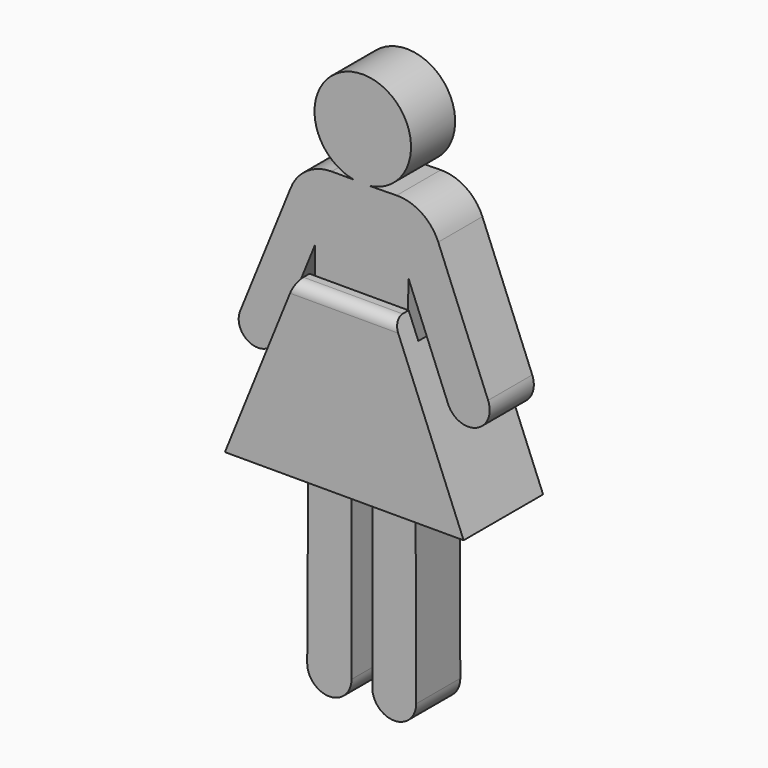
from build123d import *

# Parameters (mm, degrees)
F2_DEPTH      = 6.35
F3_R          = 5.08
F5_DEPTH      = 8.89
F5_DEPTH_BACK = 2.54
F6_R          = 1.27
F7_W          = 13.6138349771
F7_H          = 7.0735514164
F8_DEPTH      = 19.9383124709
F10_W         = 1.6416277504
F10_H         = 5.8430470526
F11_DEPTH     = 2.2302670404
F12_W         = 1.6416277504
F12_H         = 1.9405391067
F13_DEPTH     = 1.2889460195


with BuildPart() as f2:
    # F1 (on Front) → F2 (new body)
    with BuildSketch(Plane.XZ):
        Polygon((0.4060455618, 46.3404494075), (5.3807954976, 46.3404494075), (9.9196409114, 35.1362316918), (14.5262840924, 37.0023897589), (7.4799486011, 54.3963897181), (0.9054420516, 54.2915910446), (0.9054420516, 55.7651892304), (-0.9540487081, 55.7651892304), (-0.9540487081, 54.3336731377), (-6.8995594781, 54.3336731377), (-14.0205790261, 36.7553143044), (-9.9272456086, 35.097098793), (-5.3725473987, 46.3404494075), align=None)
        Polygon((4.9092009358, 30.1961339726), (5.3807954976, 46.3404494075), (0.4060455618, 46.3404494075), (-5.3725473987, 46.3404494075), (-5.4000175056, 30.1961339726), align=None)
        with BuildLine():
            Line((14.5262840924, 37.0023897589), (9.9196409114, 35.1362316918))
            ThreePointArc((9.9196409114, 35.1362316918), (13.1560415355, 33.7659891348), (14.5262840924, 37.0023897589))
        make_face()
        Polygon((6.1827251721, 23.5992409005), (4.9092009358, 30.1961339726), (-5.4000175056, 30.1961339726), (-6.1811307742, 23.599889101), (-1.2004101882, 23.599889101), (-1.2004101882, 30.1607213914), (1.1938, 30.1607213914), (1.1938, 23.5538743436), align=None)
        Polygon((6.2452442944, 3.5675764084), (6.1827251721, 23.5992409005), (1.1938, 23.5538743436), (1.1938, 3.5675764084), align=None)
        with BuildLine():
            ThreePointArc((-14.0205790261, 36.7553143044), (-12.8030200731, 33.8795398399), (-9.9272456086, 35.097098793))
            Line((-9.9272456086, 35.097098793), (-14.0205790261, 36.7553143044))
        make_face()
        with BuildLine():
            ThreePointArc((1.1938, 3.5675764084), (3.7195221472, 1.0339591437), (6.2452442944, 3.5675764084))
            Line((6.2452442944, 3.5675764084), (1.1938, 3.5675764084))
        make_face()
        Polygon((-1.2004101882, 23.599889101), (-6.1811307742, 23.599889101), (-6.2944907695, 3.6183446646), (-1.2004101882, 3.6183446646), align=None)
        with BuildLine():
            Line((0.9054420516, 55.7651892304), (0.9054420516, 54.2915910446))
            ThreePointArc((0.9054420516, 54.2915910446), (0.2252362577, 65.3390929884), (-0.9540487081, 54.3336731377))
            Line((-0.9540487081, 54.3336731377), (-0.9540487081, 55.7651892304))
            Line((-0.9540487081, 55.7651892304), (0.9054420516, 55.7651892304))
        make_face()
        with BuildLine():
            Line((-1.2004101882, 3.6183446646), (-6.2944907695, 3.6183446646))
            ThreePointArc((-6.2944907695, 3.6183446646), (-3.7474504788, 1.0568134274), (-1.2004101882, 3.6183446646))
        make_face()
    extrude(amount=F2_DEPTH)

    # F3
    f3_edges = [f2.edges().sort_by_distance(p)[0] for p in [
        (-6.899559, -3.175, 54.333673),
        (7.479949, -3.175, 54.39639),
    ]]
    fillet(f3_edges, radius=F3_R)


with BuildPart() as f5:
    # F4 (on Front) → F5 (new body, two sides)
    with BuildSketch(Plane.XZ) as f5_sk:
        Polygon((-5.7229259983, 43.4081405401), (-13.7322756209, 23.5991440713), (13.739913702, 23.5991440713), (5.692876161, 43.4081405401), align=None)
    extrude(amount=F5_DEPTH)
    extrude(f5_sk.sketch, amount=-F5_DEPTH_BACK)

    # F6
    f6_edges = [f5.edges().sort_by_distance(p)[0] for p in [
        (-0.015025, 2.54, 43.408141),
        (-0.015025, -8.89, 43.408141),
    ]]
    fillet(f6_edges, radius=F6_R)

    # F7 (on face) → F8 (cut)
    with BuildSketch(Plane(origin=(0, 0, 23.5991440713), x_dir=(1, 0, 0), z_dir=(0, 0, -1))):
        with Locations((0.0002235174, 3.2069692388)):
            Rectangle(F7_W, F7_H)
    extrude(amount=-F8_DEPTH, mode=Mode.SUBTRACT)


with BuildPart() as f11:
    # F10 (on offset) → F11 (new body)
    with BuildSketch(Plane.XZ.offset(3.8956999779)):
        with Locations((-0.0014505931, 26.7030727118)):
            Rectangle(F10_W, F10_H)
    extrude(amount=F11_DEPTH)

    # F12 (on face) → F13 (join)
    with BuildSketch(Plane(origin=(0, -3.8956999779, 0), x_dir=(-1, 0, 0), z_dir=(0, 1, 0))):
        with Locations((0.0014505931, 28.6543266848)):
            Rectangle(F12_W, F12_H)
    extrude(amount=F13_DEPTH)


solid = Compound([f2.part, f5.part, f11.part])
